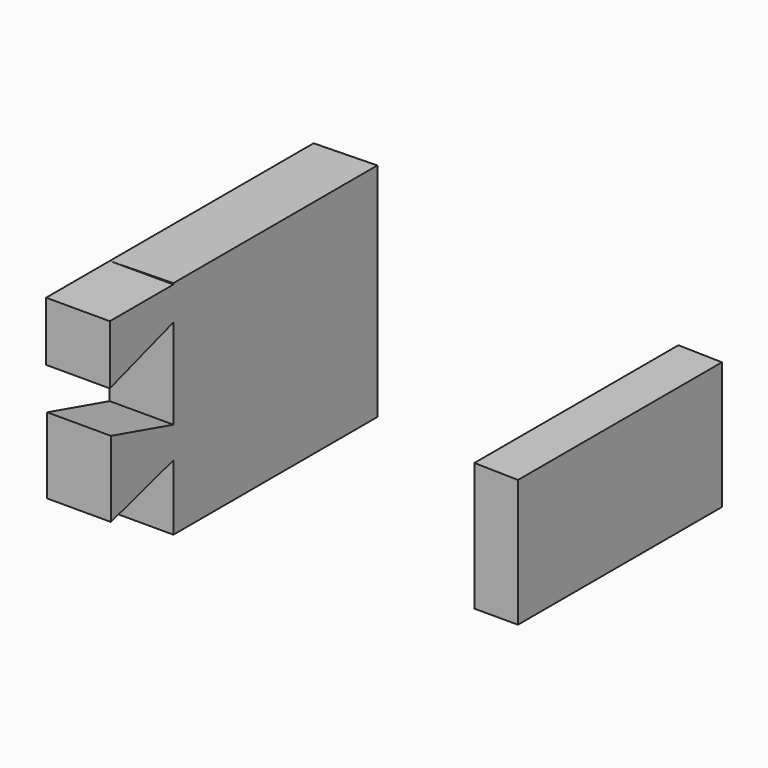
from build123d import *

# Parameters (mm, degrees)
F1_DEPTH = 304.8
F3_DEPTH = 304.8
F5_DEPTH = 76.2
F7_DEPTH = 76.2


with BuildPart() as f1:
    # F0 (on Front) → F1 (new body)
    with BuildSketch(Plane.XZ):
        Polygon((173.995058, 75.778773), (121.939329, 76.806195), (121.939329, -76.621227), (173.995058, -76.621227), align=None)
    extrude(amount=F1_DEPTH)


with BuildPart() as f3:
    # F2 (on Front) → F3 (new body)
    with BuildSketch(Plane.XZ):
        Polygon((-238.02441, 148.999748), (-314.22441, 147.550184), (-314.22441, -115.84275), (-238.02441, -115.84275), align=None)
    extrude(amount=F3_DEPTH)

    # F4 (on face) → F5 (join)
    with BuildSketch(Plane(origin=(-314.22441, 0, 0), x_dir=(0, -1, 0), z_dir=(-1, 0, 0))):
        Polygon((399.852127, 147.550184), (304.8, 147.550184), (304.8, 107.678145), (399.852127, 76.795444), align=None)
        Polygon((399.852127, 147.550184), (304.8, 147.550184), (304.8, 107.678145), (399.852127, 76.795444), align=None)
    extrude(amount=-F5_DEPTH)

    # F6 (on face) → F7 (join)
    with BuildSketch(Plane(origin=(-314.22441, 0, 0), x_dir=(0, -1, 0), z_dir=(-1, 0, 0))):
        Polygon((398.122579, 26.148599), (304.8, 0), (304.8, -37.392534), (398.233682, -64.465053), align=None)
    extrude(amount=-F7_DEPTH)


solid = Compound([f1.part, f3.part])
